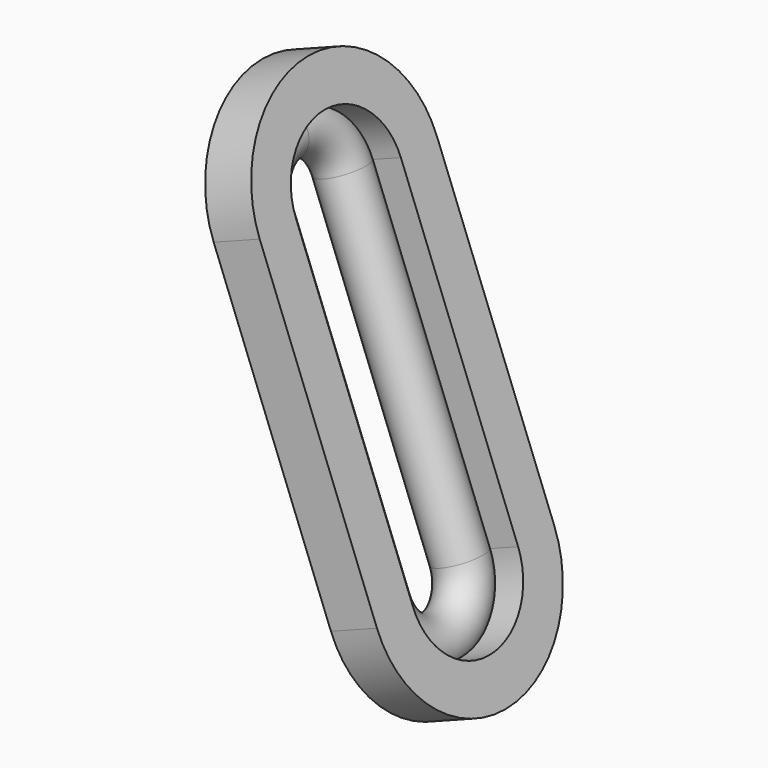
from build123d import *

# Parameters (mm, degrees)
F3_DEPTH = 1.5
F0_R     = 0.75


with BuildPart() as f3:
    # F2 (on face) → F3 (new body)
    with BuildSketch(Plane(origin=(2.401881, 0, 0.925115), x_dir=(0, 1, 0), z_dir=(0.933174, 0, 0.359424))):
        with BuildLine():
            ThreePointArc((3.371919, 12.194136), (0, 15.566055), (-3.371919, 12.194136))
            Line((-3.371919, 12.194136), (-3.371919, 2.272094))
            ThreePointArc((-3.371919, 2.272094), (0, -1.099825), (3.371919, 2.272094))
            Line((3.371919, 2.272094), (3.371919, 12.194136))
        make_face()
        with BuildLine():
            Line((-1.995956, 2.272094), (-1.995956, 12.194136))
            ThreePointArc((-1.995956, 12.194136), (-1.410634, 13.606209), (0.002035, 14.190091))
            ThreePointArc((0.002035, 14.190091), (1.412073, 13.60477), (1.995956, 12.194136))
            Line((1.995956, 12.194136), (1.995956, 2.272094))
            ThreePointArc((1.995956, 2.272094), (0, 0.276138), (-1.995956, 2.272094))
        make_face(mode=Mode.SUBTRACT)
    extrude(amount=F3_DEPTH)


with BuildPart() as f4:
    # F4: sweep along a path in F2
    with BuildLine(Plane(origin=(2.401881, 0, 0.925115), x_dir=(0, 1, 0), z_dir=(0.933174, 0, 0.359424))) as f4_path:
        ThreePointArc((1.995956, 12.194136), (1.412073, 13.60477), (0.002035, 14.190091))
        ThreePointArc((0.002035, 14.190091), (-1.410634, 13.606209), (-1.995956, 12.194136))
        Line((-1.995956, 12.194136), (-1.995956, 2.272094))
        ThreePointArc((-1.995956, 2.272094), (0, 0.276138), (1.995956, 2.272094))
        Line((1.995956, 2.272094), (1.995956, 12.194136))
    # F0 (on Front) → F4 (sweep)
    with BuildSketch(Plane.XZ):
        with Locations((-2.530671, 13.73153)):
            Circle(F0_R)
    sweep(path=f4_path.line)


solid = Compound([f3.part, f4.part])
